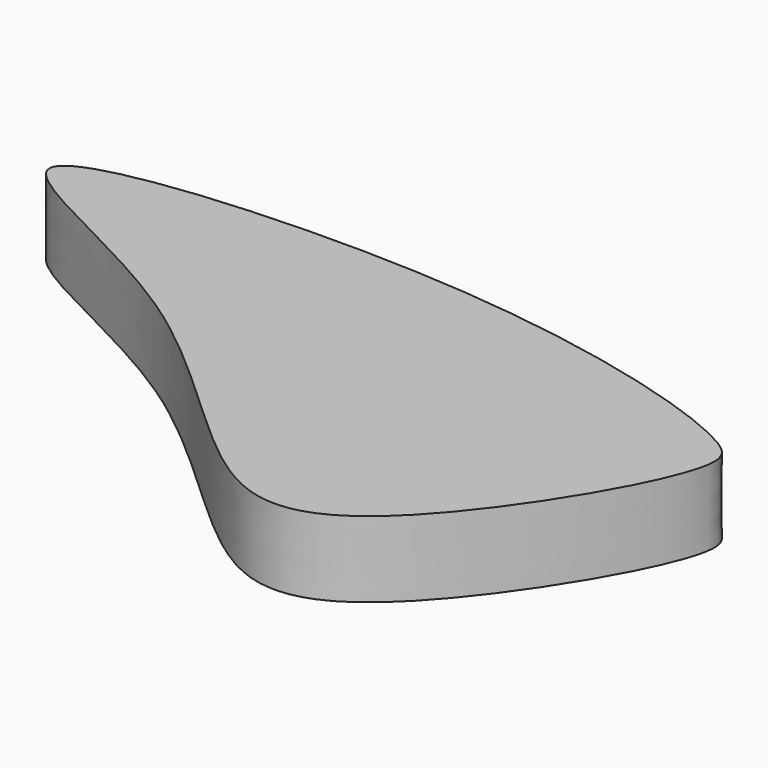
from build123d import *

# Parameters (mm, degrees)
F1_DEPTH = 10


with BuildPart() as f1:
    # F0 (on Top) → F1 (new body)
    with BuildSketch(Plane.XY):
        with BuildLine():
            add(Edge.make_bspline(
                [(-33.8430926204, 26.4488048851), (-46.4476098096, 34.8763243721), (-81.7149431495, 46.4866686379), (-8.8584419968, 52.2625269889), (29.8159576776, 40.5301467559), (35.3411239407, 34.0290433529), (18.3244399709, 5.0610530037), (-2.284510054, -6.3844242426), (-19.3432253734, 16.7540334038), (-33.8430926204, 26.4488048851)],
                knots=[0, 0, 0, 0, 0.1496701467, 0.3345812778, 0.5076813392, 0.5679789911, 0.7149115616, 0.8278238487, 1, 1, 1, 1], degree=3))
        make_face()
    extrude(amount=F1_DEPTH)


solid = f1.part
